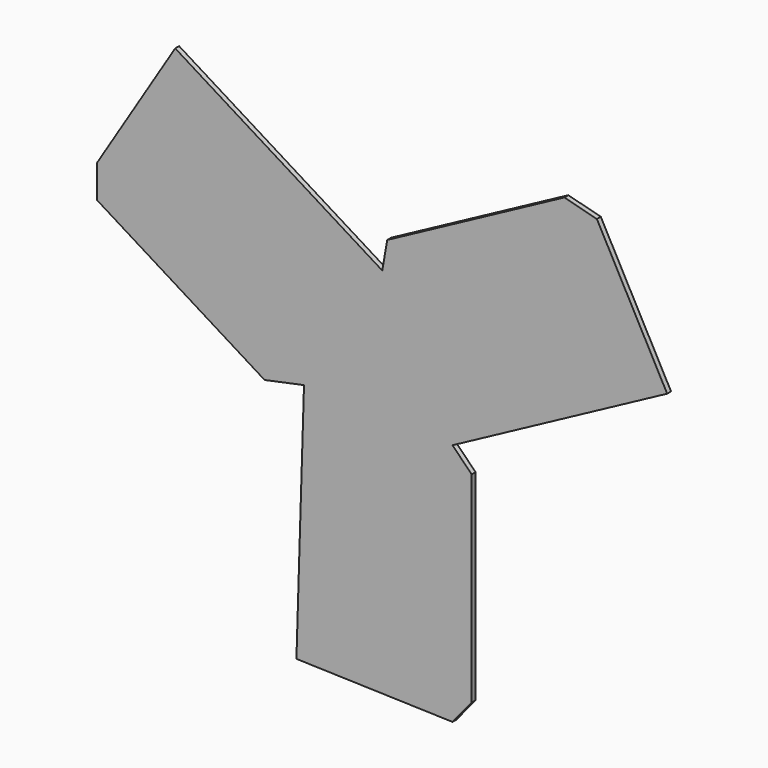
from build123d import *

# Parameters (mm, degrees)
F1_DEPTH = 25.4


with BuildPart() as f1:
    # F0 (on Front) → F1 (new body)
    with BuildSketch(Plane.XZ):
        Polygon((366.2736102042, -330.1217082712), (0, 352.5229521987), (-408.0508126226, -306.0016292089), align=None)
        Polygon((1119.0896073276, 952.971493517), (0, 352.5229521987), (366.2736102042, -330.1217082712), (1485.3632175318, 270.3268330471), align=None)
        Polygon((25.8036721498, 501.290678978), (0, 352.5229521987), (1119.0896073276, 952.971493517), (949.9932185284, 997.1654162565), align=None)
        Polygon((-408.0508126226, -306.0016292089), (0, 352.5229521987), (-1079.5484941108, 1021.4587105964), (-1487.5993067334, 362.9341291888), align=None)
        Polygon((-613.4037528071, -349.2533289781), (-408.0508126226, -306.0016292089), (-1487.5993067334, 362.9341291888), (-1487.5993067334, 192.43671), align=None)
        Polygon((366.2736102042, -330.1217082712), (-408.0508126226, -306.0016292089), (-447.5919258394, -1575.385928925), (366.2736102042, -1600.1217082712), align=None)
        Polygon((466.0987257957, -431.4825236797), (366.2736102042, -330.1217082712), (366.2736102042, -1600.1217082712), (466.0987257957, -1478.4063100815), align=None)
    extrude(amount=F1_DEPTH)


solid = f1.part
